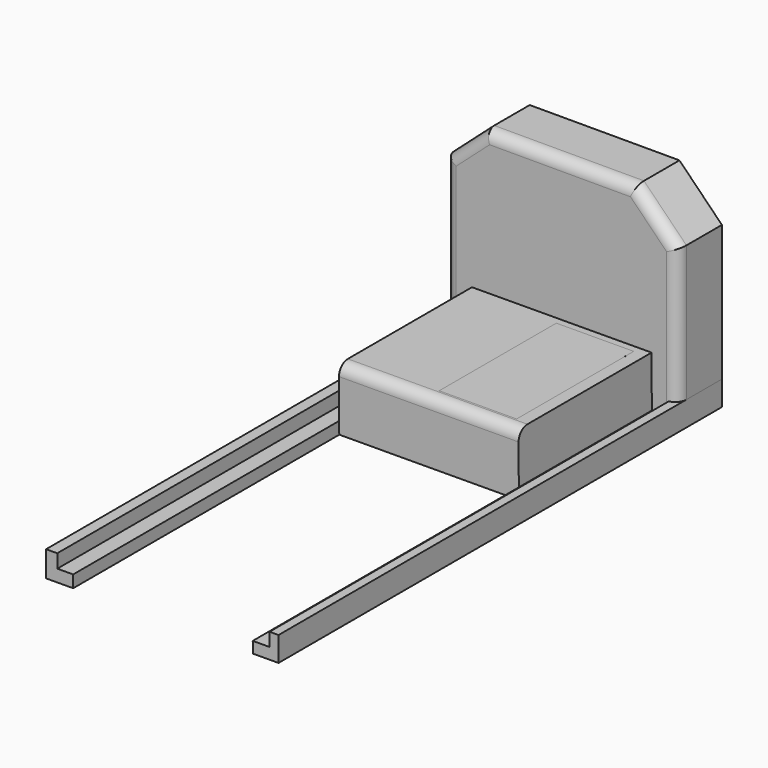
from build123d import *

# Parameters (mm, degrees)
F1_DEPTH = 254
F2_DEPTH = 101.6
F3_DEPTH = 25.4
F5_R     = 5.08
F5_2_R   = 5.08
F4_W     = 70.421255
F4_H     = 67.080386
F6_DEPTH = 25.4


with BuildPart() as f1:
    # F0 (on Front) → F1 (new body)
    with BuildSketch(Plane.XZ):
        Polygon((-48.00612, -17.129526), (-53.126641, -17.154144), (-53.126641, -28.931618), (-40.697067, -28.87186), (-40.72385, -23.301091), (-47.976282, -23.335959), align=None)
        Polygon((53.382672, -28.419552), (53.382672, -17.154144), (49.286161, -17.154144), (49.315702, -23.298772), (41.58076, -23.335959), (41.605473, -28.476174), align=None)
    extrude(amount=F1_DEPTH)


with BuildPart() as f2:
    # F0 (on Front) → F2 (new body)
    with BuildSketch(Plane.XZ):
        Polygon((-40.72385, -23.301091), (-40.697067, -28.87186), (41.605473, -28.476174), (41.58076, -23.335959), (41.468568, 0), (-40.833972, -0.395686), align=None)
    extrude(amount=F2_DEPTH)

    # F5#2
    f5_2_edges = [f2.edges().sort_by_distance(p)[0] for p in [
        (0.317298, -101.6, -0.197843),
    ]]
    fillet(f5_2_edges, radius=F5_2_R)

    # F4 (on face) → F6 (join)
    with BuildSketch(Plane(origin=(0.000958, 0, -0.199364), x_dir=(0.999988, 0, 0.004808), z_dir=(-0.004808, 0, 0.999988))):
        with Locations((0.644948, -62.144656)):
            Rectangle(F4_W, F4_H)
    extrude(amount=-F6_DEPTH)


with BuildPart() as f3:
    # F0 (on Front) → F3 (new body)
    with BuildSketch(Plane.XZ):
        Polygon((33.924241, 64.776093), (-34.692336, 64.776093), (-53.126641, 48.390046), (-53.126641, -17.154144), (-48.00612, -17.129526), (-47.976282, -23.335959), (-40.72385, -23.301091), (-40.833972, -0.395686), (41.468568, 0), (41.58076, -23.335959), (49.315702, -23.298772), (49.286161, -17.154144), (53.382672, -17.154144), (53.382672, 45.061633), align=None)
    extrude(amount=F3_DEPTH)

    # F5
    f5_edges = [f3.edges().sort_by_distance(p)[0] for p in [
        (-43.909488, -25.4, 56.583069),
        (-0.384048, -25.4, 64.776093),
        (43.653456, -25.4, 54.918863),
        (53.382672, -25.4, 13.953744),
        (-53.126641, -25.4, 15.617951),
    ]]
    fillet(f5_edges, radius=F5_R)


solid = Compound([f1.part, f2.part, f3.part])
